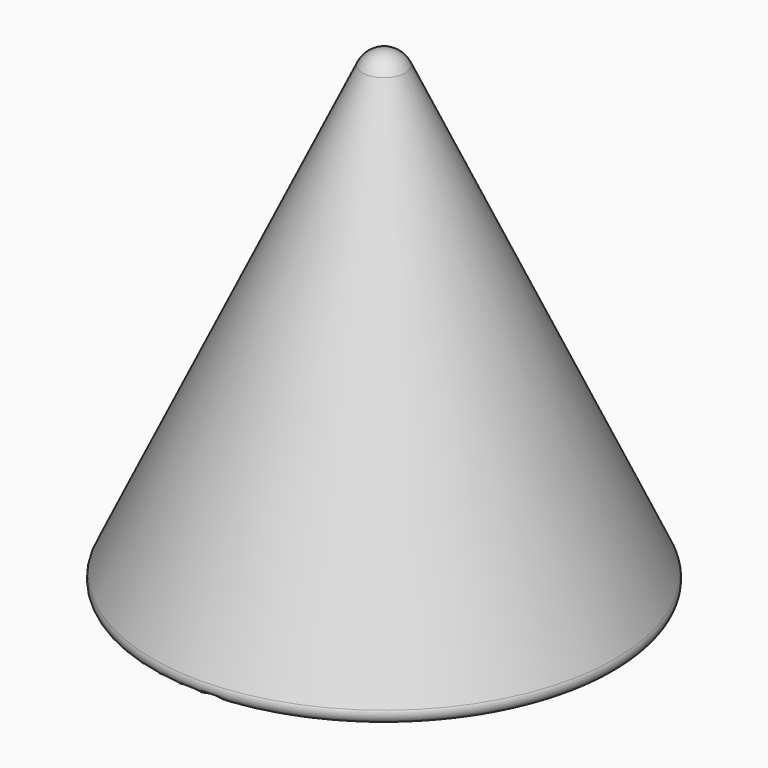
from build123d import *

# Parameters (mm, degrees)
F2_R = 1


with BuildPart() as f1:
    # F0 (on Front) → F1 (revolve)
    with BuildSketch(Plane.XZ):
        with BuildLine():
            ThreePointArc((0, 50), (-1.34161, 49.609522), (-2.264125, 48.560066))
            Line((-2.264125, 48.560066), (-25, 0))
            Line((-25, 0), (0, 0))
            Line((0, 0), (0, 50))
        make_face()
    revolve(axis=Axis((0, 0, 26.697931), (0, 0, 1)))

    # F2
    f2_edges = [f1.edges().sort_by_distance(p)[0] for p in [
        (25, 0, 0),
    ]]
    fillet(f2_edges, radius=F2_R)

    # F3 (on Front) → F4 (revolve, cut)
    with BuildSketch(Plane.XZ):
        Polygon((0, 3.5), (0, 44.905821), (-19.38625, 3.5), align=None)
    revolve(axis=Axis((0, 0, 24.883967), (0, 0, -1)), mode=Mode.SUBTRACT)


solid = f1.part
